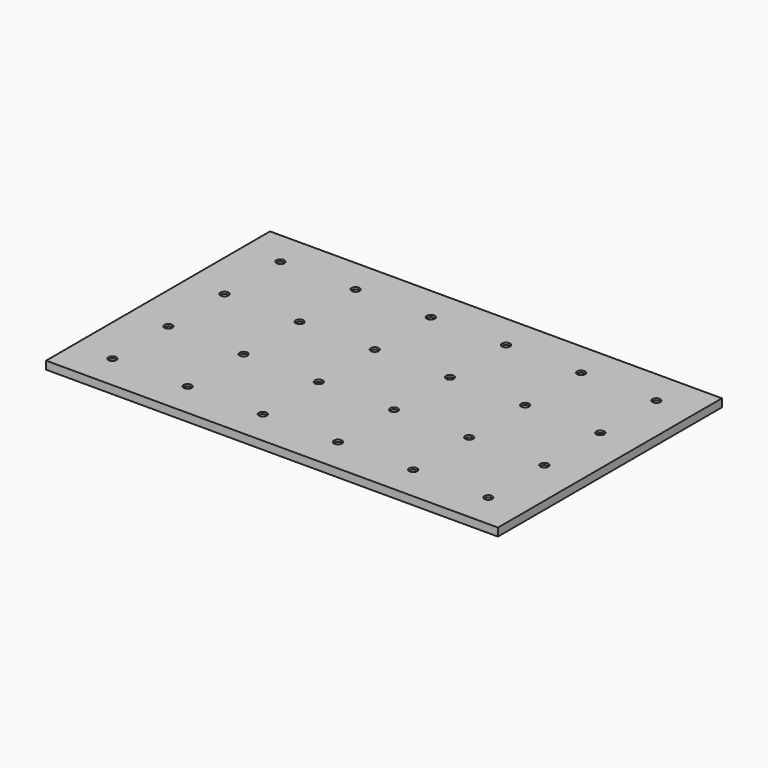
from build123d import *

# Parameters (mm, degrees)
F0_W     = 1130
F0_H     = 700
F1_DEPTH = 20
F2_R     = 10
F3_DEPTH = 5
F4_DEPTH = 5


with BuildPart() as f1:
    # F0 (on Top) → F1 (new body)
    with BuildSketch(Plane.XY):
        with Locations((8.889999, -39.553397)):
            Rectangle(F0_W, F0_H)
    extrude(amount=F1_DEPTH)

    # F2 (on face) → F3 (cut)
    with BuildSketch(Plane.XY.offset(20)):
        with Locations((479.889999, 222.946603)):
            Circle(F2_R)
    extrude(amount=-F3_DEPTH, mode=Mode.SUBTRACT)

    # F2 (on face) → F4 (cut)
    with BuildSketch(Plane.XY.offset(20)):
        with Locations((479.889999, 222.946603)):
            Circle(F2_R)
        with Locations((291.889999, 222.946603)):
            Circle(F2_R)
        with Locations((103.889999, 222.946603)):
            Circle(F2_R)
        with Locations((-84.110001, 222.946603)):
            Circle(F2_R)
        with Locations((-272.110001, 222.946603)):
            Circle(F2_R)
        with Locations((-460.110001, 222.946603)):
            Circle(F2_R)
        with Locations((-460.110001, 47.946603)):
            Circle(F2_R)
        with Locations((-460.110001, -127.053397)):
            Circle(F2_R)
        with Locations((-460.110001, -302.053397)):
            Circle(F2_R)
        with Locations((-272.110001, -302.053397)):
            Circle(F2_R)
        with Locations((-84.110001, -302.053397)):
            Circle(F2_R)
        with Locations((103.889999, -302.053397)):
            Circle(F2_R)
        with Locations((291.889999, -302.053397)):
            Circle(F2_R)
        with Locations((479.889999, -302.053397)):
            Circle(F2_R)
        with Locations((479.889999, -127.053397)):
            Circle(F2_R)
        with Locations((479.889999, 47.946603)):
            Circle(F2_R)
        with Locations((291.889999, 47.946603)):
            Circle(F2_R)
        with Locations((291.889999, -127.053397)):
            Circle(F2_R)
        with Locations((103.889999, -127.053397)):
            Circle(F2_R)
        with Locations((-84.110001, -127.053397)):
            Circle(F2_R)
        with Locations((-272.110001, -127.053397)):
            Circle(F2_R)
        with Locations((-272.110001, 47.946603)):
            Circle(F2_R)
        with Locations((-84.110001, 47.946603)):
            Circle(F2_R)
        with Locations((103.889999, 47.946603)):
            Circle(F2_R)
    extrude(amount=-F4_DEPTH, mode=Mode.SUBTRACT)


solid = f1.part
